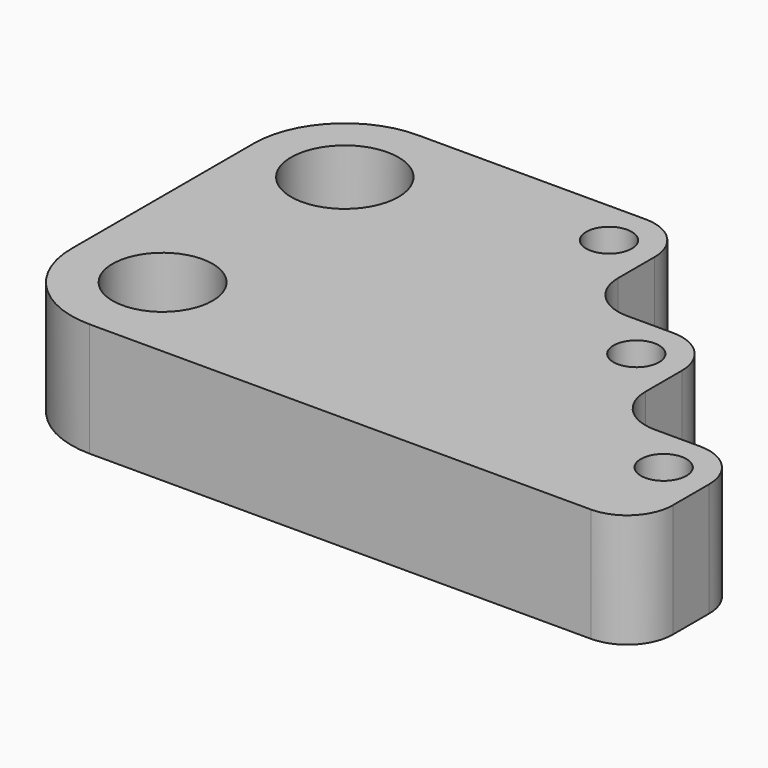
from build123d import *

# Parameters (mm, degrees)
F0_R     = 10.98117
F0_R_2   = 5
F0_R_3   = 11.791402
F1_DEPTH = 25


with BuildPart() as f1:
    # F0 (on Top) → F1 (new body)
    with BuildSketch(Plane.XY):
        with BuildLine():
            ThreePointArc((-59.71799, -43.769214), (-53.860126, -57.911349), (-39.71799, -63.769214))
            Line((-39.71799, -63.769214), (70.28201, -63.769214))
            ThreePointArc((70.28201, -63.769214), (77.353077, -60.840282), (80.28201, -53.769214))
            Line((80.28201, -53.769214), (80.28201, -43.769214))
            ThreePointArc((80.28201, -43.769214), (77.353077, -36.698146), (70.28201, -33.769214))
            Line((70.28201, -33.769214), (60.28201, -33.769214))
            ThreePointArc((60.28201, -33.769214), (53.210942, -30.840282), (50.28201, -23.769214))
            Line((50.28201, -23.769214), (50.28201, -13.769214))
            ThreePointArc((50.28201, -13.769214), (47.353077, -6.698146), (40.28201, -3.769214))
            Line((40.28201, -3.769214), (30.28201, -3.769214))
            ThreePointArc((30.28201, -3.769214), (23.210942, -0.840282), (20.28201, 6.230786))
            Line((20.28201, 6.230786), (20.28201, 16.230786))
            ThreePointArc((20.28201, 16.230786), (17.353077, 23.301854), (10.28201, 26.230786))
            Line((10.28201, 26.230786), (-39.71799, 26.230786))
            ThreePointArc((-39.71799, 26.230786), (-53.860126, 20.372922), (-59.71799, 6.230786))
            Line((-59.71799, 6.230786), (-59.71799, -43.769214))
        make_face()
        with Locations((-39.71799, -43.769214)):
            Circle(F0_R, mode=Mode.SUBTRACT)
        with Locations((70.28201, -43.769214)):
            Circle(F0_R_2, mode=Mode.SUBTRACT)
        with Locations((-39.71799, 6.230786)):
            Circle(F0_R_3, mode=Mode.SUBTRACT)
        with Locations((40.28201, -13.769214)):
            Circle(F0_R_2, mode=Mode.SUBTRACT)
        with Locations((10.28201, 16.230786)):
            Circle(F0_R_2, mode=Mode.SUBTRACT)
    extrude(amount=F1_DEPTH)


solid = f1.part
